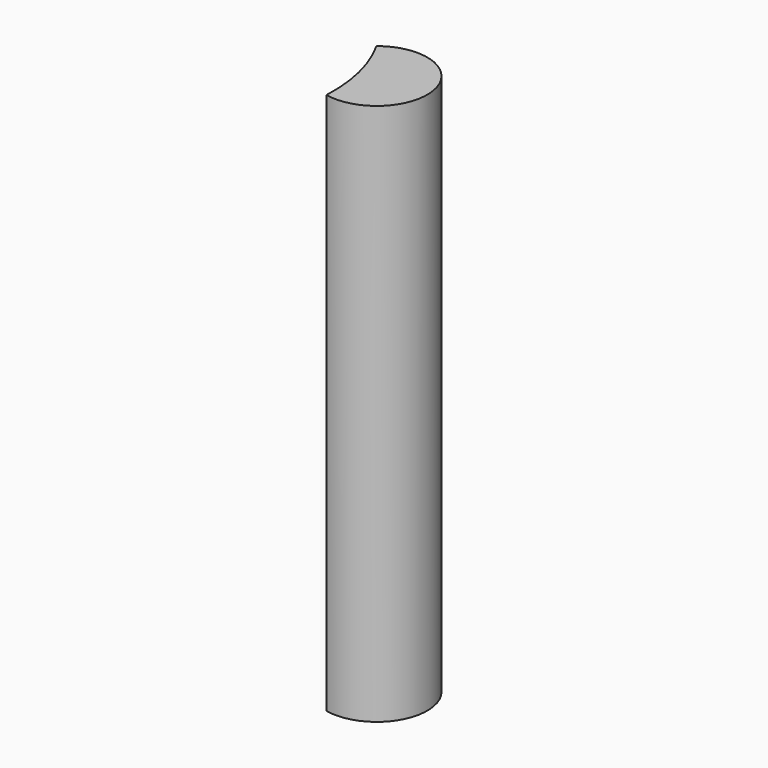
from build123d import *

# Parameters (mm, degrees)
F1_DEPTH = 25.4


with BuildPart() as f1:
    # F0 (on Top) → F1 (new body)
    with BuildSketch(Plane.XY):
        with BuildLine():
            ThreePointArc((8.532844, 4.232754), (9.323475, 2.220739), (9.524755, 0.068347))
            ThreePointArc((9.524755, 0.068347), (12.328932, 2.936602), (8.532844, 4.232754))
        make_face()
    extrude(amount=F1_DEPTH)


solid = f1.part
